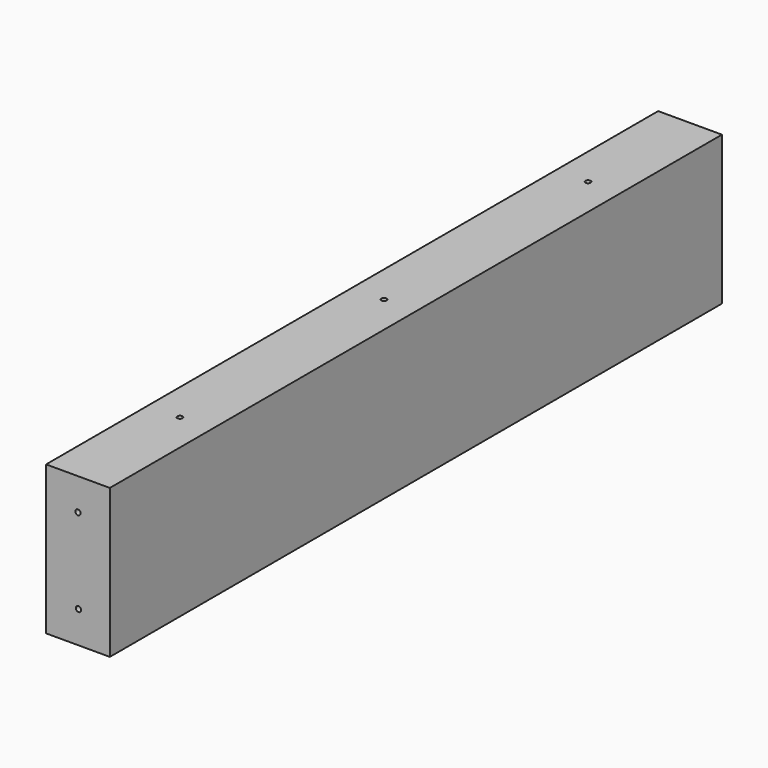
from build123d import *

# Parameters (mm, degrees)
F0_W     = 38.1
F0_H     = 88.9
F1_DEPTH = 457.2
F2_R     = 1.5875
F3_DEPTH = 457.2
F4_R     = 1.5875
F5_DEPTH = 25.4


with BuildPart() as f1:
    # F0 (on Front) → F1 (new body)
    with BuildSketch(Plane.XZ):
        with Locations((19.05, -44.45)):
            Rectangle(F0_W, F0_H)
    extrude(amount=F1_DEPTH)

    # F2 (on Front) → F3 (cut)
    with BuildSketch(Plane.XZ):
        with Locations((19.05, -19.05)):
            Circle(F2_R)
        with Locations((19.375634, -69.848956)):
            Circle(F2_R)
    extrude(amount=F3_DEPTH, mode=Mode.SUBTRACT)

    # F4 (on Top) → F5 (cut)
    with BuildSketch(Plane.XY):
        with Locations((19.05, -76.2)):
            Circle(F4_R)
        with Locations((19.05, -228.6)):
            Circle(F4_R)
        with Locations((19.05, -381)):
            Circle(F4_R)
    extrude(amount=-F5_DEPTH, mode=Mode.SUBTRACT)


solid = f1.part
